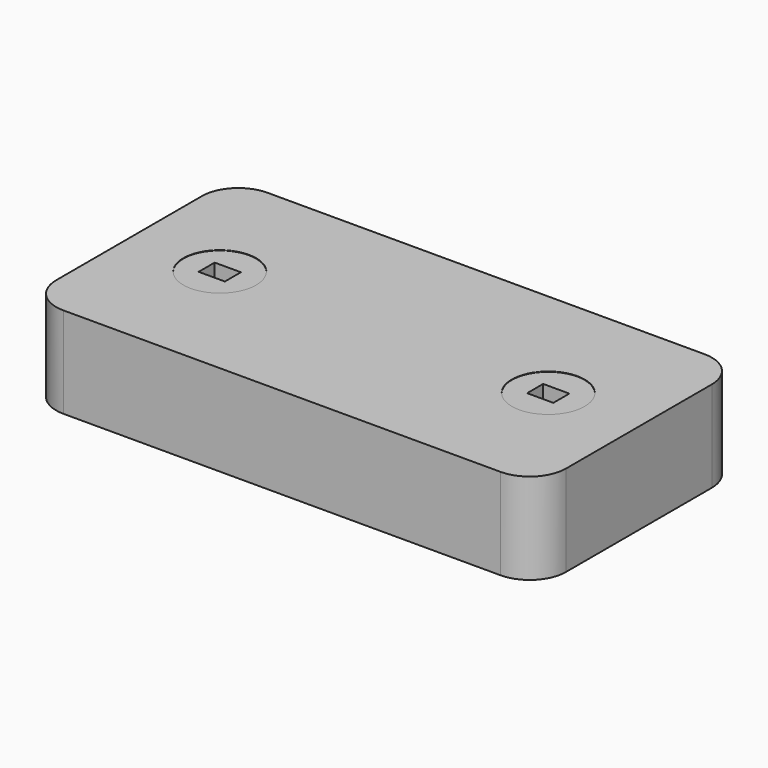
from build123d import *

# Parameters (mm, degrees)
F0_W      = 140
F0_H      = 70
F1_DEPTH  = 35
F2_R      = 10
F3_R      = 10
F4_DEPTH  = 5.4
F6_DEPTH  = 9.4
F7_R      = 10
F7_W      = 7.2
F7_H      = 5.5
F8_DEPTH  = 5.3
F9_W      = 205.02191
F9_H      = 101.367414
F10_DEPTH = 10


with BuildPart() as f1:
    # F0 (on Top) → F1 (new body)
    with BuildSketch(Plane.XY):
        Rectangle(F0_W, F0_H)
    extrude(amount=F1_DEPTH)

    # F2
    f2_edges = [f1.edges().sort_by_distance(p)[0] for p in [
        (-70, -35, 17.5),
        (70, -35, 17.5),
        (70, 35, 17.5),
        (-70, 35, 17.5),
    ]]
    fillet(f2_edges, radius=F2_R)

    # F3 (on face) → F4 (cut)
    with BuildSketch(Plane.XY.offset(35)):
        with Locations((-45.1, 0)):
            Circle(F3_R)
        with Locations((45.1, 0)):
            Circle(F3_R)
    extrude(amount=-F4_DEPTH, mode=Mode.SUBTRACT)

    # F5 (on face) → F6 (cut)
    with BuildSketch(Plane.XY.offset(29.6)):
        with BuildLine():
            Line((-40.1, 2.75), (-50.1, 2.75))
            ThreePointArc((-50.1, 2.75), (-51.867767, 2.017767), (-52.6, 0.25))
            Line((-52.6, 0.25), (-52.6, -0.25))
            ThreePointArc((-52.6, -0.25), (-51.867767, -2.017767), (-50.1, -2.75))
            Line((-50.1, -2.75), (-40.1, -2.75))
            ThreePointArc((-40.1, -2.75), (-38.332233, -2.017767), (-37.6, -0.25))
            Line((-37.6, -0.25), (-37.6, 0.25))
            ThreePointArc((-37.6, 0.25), (-38.332233, 2.017767), (-40.1, 2.75))
        make_face()
        with BuildLine():
            Line((50.1, 2.75), (40.1, 2.75))
            ThreePointArc((40.1, 2.75), (38.332233, 2.017767), (37.6, 0.25))
            Line((37.6, 0.25), (37.6, -0.25))
            ThreePointArc((37.6, -0.25), (38.332233, -2.017767), (40.1, -2.75))
            Line((40.1, -2.75), (50.1, -2.75))
            ThreePointArc((50.1, -2.75), (51.867767, -2.017767), (52.6, -0.25))
            Line((52.6, -0.25), (52.6, 0.25))
            ThreePointArc((52.6, 0.25), (51.867767, 2.017767), (50.1, 2.75))
        make_face()
    extrude(amount=-F6_DEPTH, mode=Mode.SUBTRACT)

    # F9 (on face) → F10 (cut)
    with BuildSketch(Plane(origin=(0, 0, 0), x_dir=(1, 0, 0), z_dir=(0, 0, -1))):
        with Locations((7.608954, -8.668002)):
            Rectangle(F9_W, F9_H)
    extrude(amount=-F10_DEPTH, mode=Mode.SUBTRACT)


with BuildPart() as f8:
    # F7 (on face) → F8 (new body)
    with BuildSketch(Plane.XY.offset(29.6)):
        with Locations((-45.1, 0)):
            Circle(F7_R)
        with Locations((-45.1, 0)):
            Rectangle(F7_W, F7_H, mode=Mode.SUBTRACT)
        with Locations((45.1, 0)):
            Circle(F7_R)
        with Locations((45.1, 0)):
            Rectangle(F7_W, F7_H, mode=Mode.SUBTRACT)
    extrude(amount=F8_DEPTH)


solid = Compound([f1.part, f8.part])
